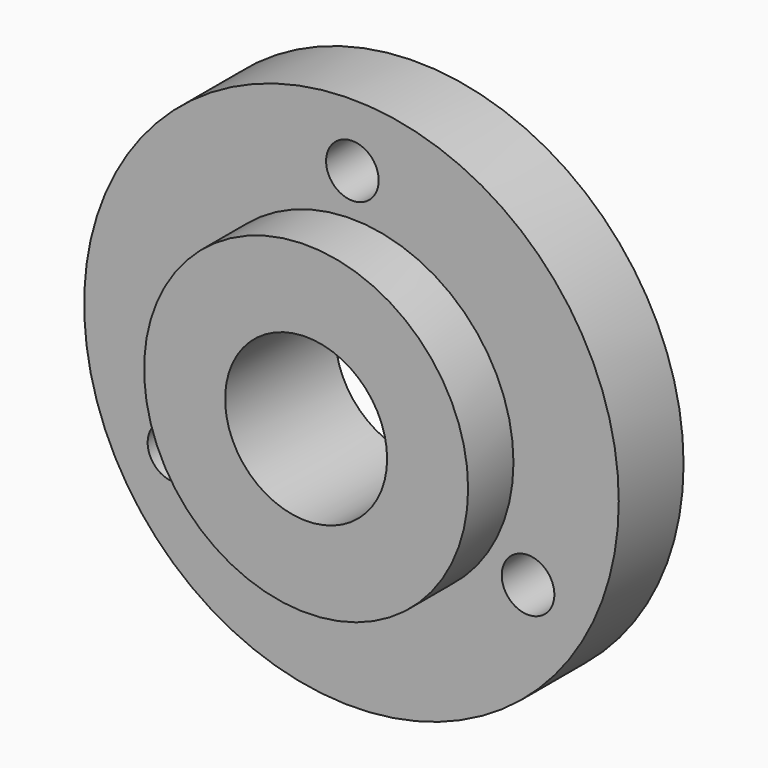
from build123d import *

# Parameters (mm, degrees)
F0_R     = 33
F0_R_2   = 3.25
F0_R_3   = 20
F0_R_4   = 10
F1_DEPTH = 10
F2_DEPTH = 7


with BuildPart() as f1:
    # F0 (on Front) → F1 (new body)
    with BuildSketch(Plane.XZ):
        Circle(F0_R)
        with Locations((-21.9121137141, -12.5195478067)):
            Circle(F0_R_2, mode=Mode.SUBTRACT)
        with Locations((21.7983033015, -12.7166732237)):
            Circle(F0_R_2, mode=Mode.SUBTRACT)
        Circle(F0_R_3, mode=Mode.SUBTRACT)
        with Locations((0.1138104126, 25.2362210304)):
            Circle(F0_R_2, mode=Mode.SUBTRACT)
        Circle(F0_R_3)
        Circle(F0_R_4, mode=Mode.SUBTRACT)
    extrude(amount=-F1_DEPTH)

    # F0 (on Front) → F2 (join)
    with BuildSketch(Plane.XZ):
        Circle(F0_R_3)
        Circle(F0_R_4, mode=Mode.SUBTRACT)
    extrude(amount=F2_DEPTH)


solid = f1.part
